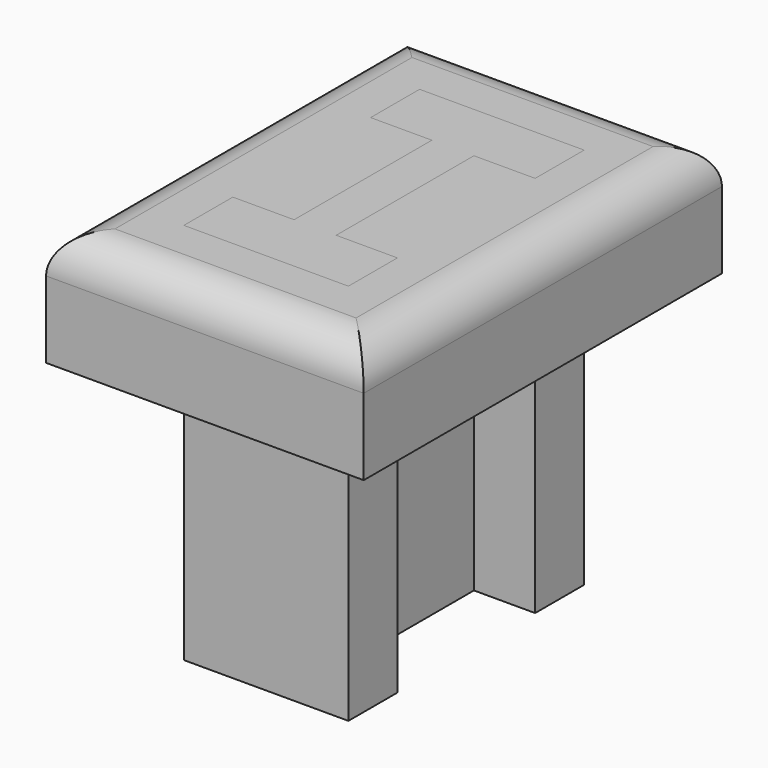
from build123d import *

# Parameters (mm, degrees)
F1_DEPTH = 7
F3_DEPTH = 3
F4_DEPTH = 3
F5_R     = 1


with BuildPart() as f1:
    # F0 (on Top) → F1 (new body)
    with BuildSketch(Plane.XY):
        Polygon((-42.347722, -13.635143), (-40.747722, -13.635143), (-40.747722, -18.135143), (-42.347722, -18.135143), (-42.347722, -19.735143), (-38.047722, -19.735143), (-38.047722, -18.135143), (-39.647722, -18.135143), (-39.647722, -13.635143), (-38.047722, -13.635143), (-38.047722, -12.035143), (-42.347722, -12.035143), align=None)
    extrude(amount=F1_DEPTH)


with BuildPart() as f3:
    # F2 (on face) → F3 (new body)
    with BuildSketch(Plane.XY.offset(7)):
        Polygon((-44.347722, -10.035143), (-44.347722, -18.635144), (-44.347722, -21.735143), (-36.047722, -21.735143), (-36.047722, -13.135143), (-36.047722, -10.035143), align=None)
        Polygon((-40.747722, -13.635143), (-42.347722, -13.635143), (-42.347722, -12.035143), (-38.047722, -12.035143), (-38.047722, -13.635143), (-39.647722, -13.635143), (-39.647722, -18.135143), (-38.047722, -18.135143), (-38.047722, -19.735143), (-42.347722, -19.735143), (-42.347722, -18.135143), (-40.747722, -18.135143), align=None, mode=Mode.SUBTRACT)
    extrude(amount=F3_DEPTH)

    # F5
    f5_edges = [f3.edges().sort_by_distance(p)[0] for p in [
        (-40.197722, -10.035143, 10),
        (-44.347722, -15.885143, 10),
        (-40.197722, -21.735143, 10),
        (-36.047722, -15.885143, 10),
    ]]
    fillet(f5_edges, radius=F5_R)


with BuildPart() as f4:
    # F1_face (on face) → F4 (new body)
    with BuildSketch(Plane(origin=(-40.197722, -15.885143, 7), x_dir=(1, 0, 0), z_dir=(0, 0, 1))):
        Polygon((-2.15, 2.25), (-0.55, 2.25), (-0.55, -2.25), (-2.15, -2.25), (-2.15, -3.85), (2.15, -3.85), (2.15, -2.25), (0.55, -2.25), (0.55, 2.25), (2.15, 2.25), (2.15, 3.85), (-2.15, 3.85), align=None)
    extrude(amount=F4_DEPTH)


solid = Compound([f1.part, f3.part, f4.part])
